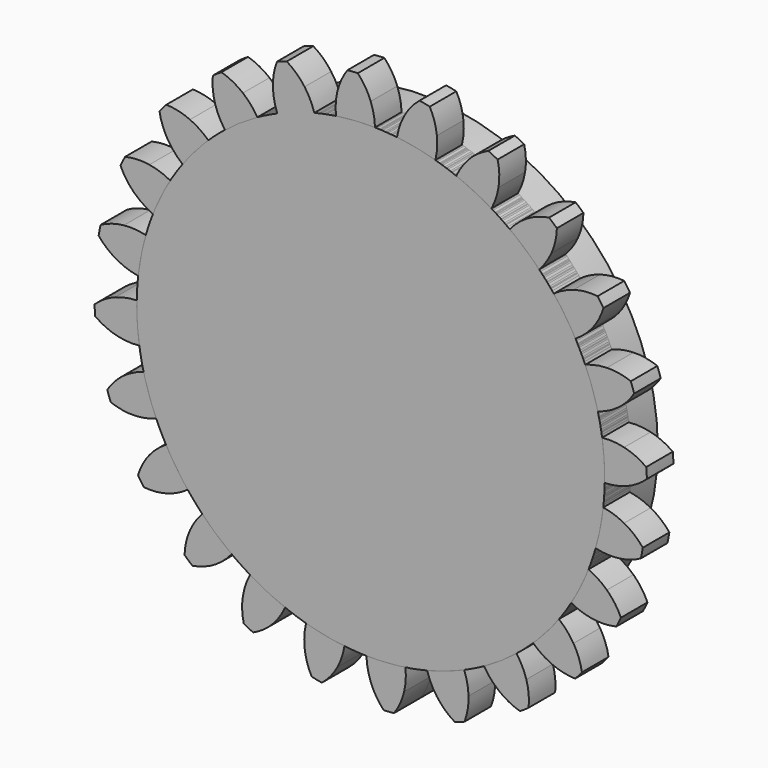
from build123d import *

# Parameters (mm, degrees)
F1_DEPTH = 7.62
F2_COUNT = 24
F2_ANGLE = 345


with BuildPart() as f1:
    # F0 (on Front) → F1 (new body)
    with BuildSketch(Plane.XZ):
        with BuildLine():
            ThreePointArc((-7.981784, 53.12473), (-35.05108, -40.71078), (53.721, 0))
            ThreePointArc((53.721, 0), (38.331165, 37.638645), (0.97933, 53.712073))
            ThreePointArc((0.97933, 53.712073), (-3.513522, 53.605979), (-7.981784, 53.12473))
        make_face()
        with BuildLine():
            ThreePointArc((-7.981784, 53.12473), (-3.513522, 53.605979), (0.97933, 53.712073))
            ThreePointArc((0.97933, 53.712073), (0.699693, 56.234489), (0, 58.674))
            ThreePointArc((0, 58.674), (-1.249117, 61.18049), (-2.964913, 63.393819))
            ThreePointArc((-2.964913, 63.393819), (-4.151255, 63.335911), (-5.335006, 63.238475))
            ThreePointArc((-5.335006, 63.238475), (-6.747226, 60.820124), (-7.658494, 58.172036))
            ThreePointArc((-7.658494, 58.172036), (-8.033781, 55.662067), (-7.981784, 53.12473))
        make_face()
    extrude(amount=F1_DEPTH)


with BuildPart() as f2_1:
    # F2: instance of F1
    add(f1.part.rotate(Axis((0, 0, 0), (0, 1, 0)), 1 * F2_ANGLE / (F2_COUNT - 1)))


with BuildPart() as f2_2:
    # F2: instance of F1
    add(f1.part.rotate(Axis((0, 0, 0), (0, 1, 0)), 2 * F2_ANGLE / (F2_COUNT - 1)))


with BuildPart() as f2_3:
    # F2: instance of F1
    add(f1.part.rotate(Axis((0, 0, 0), (0, 1, 0)), 3 * F2_ANGLE / (F2_COUNT - 1)))


with BuildPart() as f2_4:
    # F2: instance of F1
    add(f1.part.rotate(Axis((0, 0, 0), (0, 1, 0)), 4 * F2_ANGLE / (F2_COUNT - 1)))


with BuildPart() as f2_5:
    # F2: instance of F1
    add(f1.part.rotate(Axis((0, 0, 0), (0, 1, 0)), 5 * F2_ANGLE / (F2_COUNT - 1)))


with BuildPart() as f2_6:
    # F2: instance of F1
    add(f1.part.rotate(Axis((0, 0, 0), (0, 1, 0)), 6 * F2_ANGLE / (F2_COUNT - 1)))


with BuildPart() as f2_7:
    # F2: instance of F1
    add(f1.part.rotate(Axis((0, 0, 0), (0, 1, 0)), 7 * F2_ANGLE / (F2_COUNT - 1)))


with BuildPart() as f2_8:
    # F2: instance of F1
    add(f1.part.rotate(Axis((0, 0, 0), (0, 1, 0)), 8 * F2_ANGLE / (F2_COUNT - 1)))


with BuildPart() as f2_9:
    # F2: instance of F1
    add(f1.part.rotate(Axis((0, 0, 0), (0, 1, 0)), 9 * F2_ANGLE / (F2_COUNT - 1)))


with BuildPart() as f2_10:
    # F2: instance of F1
    add(f1.part.rotate(Axis((0, 0, 0), (0, 1, 0)), 10 * F2_ANGLE / (F2_COUNT - 1)))


with BuildPart() as f2_11:
    # F2: instance of F1
    add(f1.part.rotate(Axis((0, 0, 0), (0, 1, 0)), 11 * F2_ANGLE / (F2_COUNT - 1)))


with BuildPart() as f2_12:
    # F2: instance of F1
    add(f1.part.rotate(Axis((0, 0, 0), (0, 1, 0)), 12 * F2_ANGLE / (F2_COUNT - 1)))


with BuildPart() as f2_13:
    # F2: instance of F1
    add(f1.part.rotate(Axis((0, 0, 0), (0, 1, 0)), 13 * F2_ANGLE / (F2_COUNT - 1)))


with BuildPart() as f2_14:
    # F2: instance of F1
    add(f1.part.rotate(Axis((0, 0, 0), (0, 1, 0)), 14 * F2_ANGLE / (F2_COUNT - 1)))


with BuildPart() as f2_15:
    # F2: instance of F1
    add(f1.part.rotate(Axis((0, 0, 0), (0, 1, 0)), 15 * F2_ANGLE / (F2_COUNT - 1)))


with BuildPart() as f2_16:
    # F2: instance of F1
    add(f1.part.rotate(Axis((0, 0, 0), (0, 1, 0)), 16 * F2_ANGLE / (F2_COUNT - 1)))


with BuildPart() as f2_17:
    # F2: instance of F1
    add(f1.part.rotate(Axis((0, 0, 0), (0, 1, 0)), 17 * F2_ANGLE / (F2_COUNT - 1)))


with BuildPart() as f2_18:
    # F2: instance of F1
    add(f1.part.rotate(Axis((0, 0, 0), (0, 1, 0)), 18 * F2_ANGLE / (F2_COUNT - 1)))


with BuildPart() as f2_19:
    # F2: instance of F1
    add(f1.part.rotate(Axis((0, 0, 0), (0, 1, 0)), 19 * F2_ANGLE / (F2_COUNT - 1)))


with BuildPart() as f2_20:
    # F2: instance of F1
    add(f1.part.rotate(Axis((0, 0, 0), (0, 1, 0)), 20 * F2_ANGLE / (F2_COUNT - 1)))


with BuildPart() as f2_21:
    # F2: instance of F1
    add(f1.part.rotate(Axis((0, 0, 0), (0, 1, 0)), 21 * F2_ANGLE / (F2_COUNT - 1)))


with BuildPart() as f2_22:
    # F2: instance of F1
    add(f1.part.rotate(Axis((0, 0, 0), (0, 1, 0)), 22 * F2_ANGLE / (F2_COUNT - 1)))


with BuildPart() as f2_23:
    # F2: instance of F1
    add(f1.part.rotate(Axis((0, 0, 0), (0, 1, 0)), 23 * F2_ANGLE / (F2_COUNT - 1)))


with BuildPart() as f3_1:
    # F3: instance of F2_12
    add(f2_12.part.mirror(Plane.XZ))


solid = Compound([f1.part, f2_1.part, f2_2.part, f2_3.part, f2_4.part, f2_5.part, f2_6.part, f2_7.part, f2_8.part, f2_9.part, f2_10.part, f2_11.part, f2_12.part, f2_13.part, f2_14.part, f2_15.part, f2_16.part, f2_17.part, f2_18.part, f2_19.part, f2_20.part, f2_21.part, f2_22.part, f2_23.part, f3_1.part])
